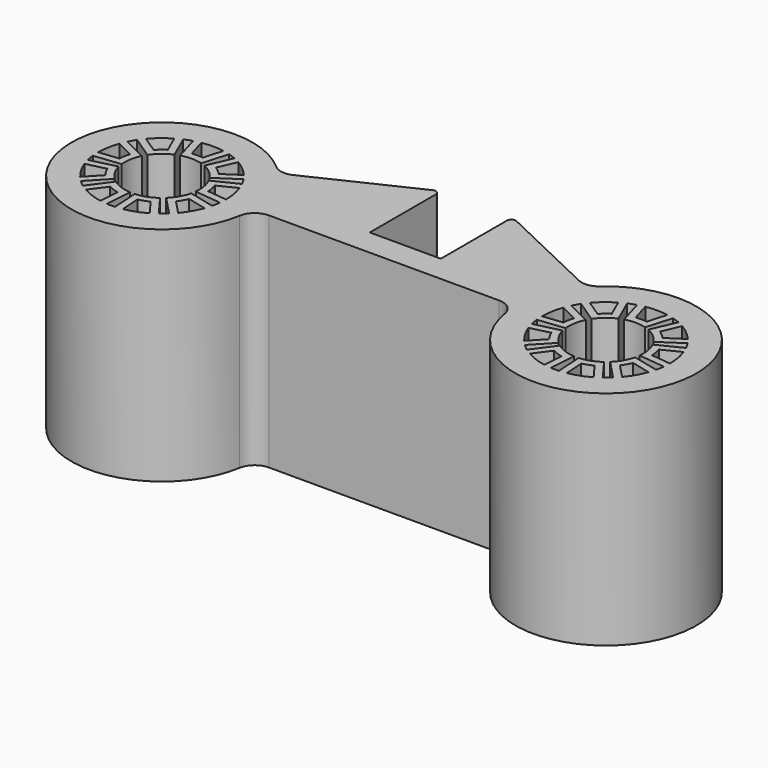
from build123d import *

# Parameters (mm, degrees)
F0_R     = 8
F1_DEPTH = 25
F4_R     = 7.5
F5_DEPTH = 25
F6_R     = 0.5
F7_R     = 2


with BuildPart() as f1:
    # F0 (on Top) → F1 (new body)
    with BuildSketch(Plane.XY):
        Circle(F0_R)
        with BuildLine():
            ThreePointArc((-2.282131, -4.448806), (-1.710101, -4.698463), (-1.111423, -4.874909))
            Line((-1.111423, -4.874909), (-1.252214, -7.090272))
            ThreePointArc((-1.252214, -7.090272), (-2.462545, -6.765787), (-3.598288, -6.236371))
            Line((-3.598288, -6.236371), (-2.282131, -4.448806))
        make_face(mode=Mode.SUBTRACT)
        with BuildLine():
            ThreePointArc((-4.607852, -1.941058), (-4.330127, -2.5), (-3.984931, -3.019988))
            Line((-3.984931, -3.019988), (-5.516791, -4.626556))
            ThreePointArc((-5.516791, -4.626556), (-6.235383, -3.6), (-6.76511, -2.464403))
            Line((-6.76511, -2.464403), (-4.607852, -1.941058))
        make_face(mode=Mode.SUBTRACT)
        with BuildLine():
            ThreePointArc((1.111423, -4.874909), (1.710101, -4.698463), (2.282131, -4.448806))
            Line((2.282131, -4.448806), (3.598288, -6.236371))
            ThreePointArc((3.598288, -6.236371), (2.462545, -6.765787), (1.252214, -7.090272))
            Line((1.252214, -7.090272), (1.111423, -4.874909))
        make_face(mode=Mode.SUBTRACT)
        with BuildLine():
            ThreePointArc((-1.183277, 4.02987), (0, 4.2), (1.183277, 4.02987))
            Line((1.183277, 4.02987), (2.028474, 6.908349))
            ThreePointArc((2.028474, 6.908349), (2.462545, 6.765787), (2.8867, 6.595981))
            Line((2.8867, 6.595981), (1.683908, 3.847656))
            ThreePointArc((1.683908, 3.847656), (2.699708, 3.217387), (3.496793, 2.326464))
            Line((3.496793, 2.326464), (5.994503, 3.988224))
            ThreePointArc((5.994503, 3.988224), (6.235383, 3.6), (6.451155, 3.19728))
            Line((6.451155, 3.19728), (3.763174, 1.86508))
            ThreePointArc((3.763174, 1.86508), (4.136193, 0.729322), (4.174122, -0.46552))
            Line((4.174122, -0.46552), (7.155637, -0.798035))
            ThreePointArc((7.155637, -0.798035), (7.090616, -1.250267), (6.997043, -1.697464))
            Line((6.997043, -1.697464), (4.081609, -0.990188))
            ThreePointArc((4.081609, -0.990188), (3.637307, -2.1), (2.898332, -3.039683))
            Line((2.898332, -3.039683), (4.968569, -5.210885))
            ThreePointArc((4.968569, -5.210885), (4.628071, -5.51552), (4.268937, -5.797946))
            Line((4.268937, -5.797946), (2.490213, -3.382135))
            ThreePointArc((2.490213, -3.382135), (1.436485, -3.946709), (0.26638, -4.191544))
            Line((0.26638, -4.191544), (0.456652, -7.185504))
            ThreePointArc((0.456652, -7.185504), (0, -7.2), (-0.456652, -7.185504))
            Line((-0.456652, -7.185504), (-0.26638, -4.191544))
            ThreePointArc((-0.26638, -4.191544), (-1.436485, -3.946709), (-2.490213, -3.382135))
            Line((-2.490213, -3.382135), (-4.268937, -5.797946))
            ThreePointArc((-4.268937, -5.797946), (-4.628071, -5.51552), (-4.968569, -5.210885))
            Line((-4.968569, -5.210885), (-2.898332, -3.039683))
            ThreePointArc((-2.898332, -3.039683), (-3.637307, -2.1), (-4.081609, -0.990188))
            Line((-4.081609, -0.990188), (-6.997043, -1.697464))
            ThreePointArc((-6.997043, -1.697464), (-7.090616, -1.250267), (-7.155637, -0.798035))
            Line((-7.155637, -0.798035), (-4.174122, -0.46552))
            ThreePointArc((-4.174122, -0.46552), (-4.136193, 0.729322), (-3.763174, 1.86508))
            Line((-3.763174, 1.86508), (-6.451155, 3.19728))
            ThreePointArc((-6.451155, 3.19728), (-6.235383, 3.6), (-5.994503, 3.988224))
            Line((-5.994503, 3.988224), (-3.496793, 2.326464))
            ThreePointArc((-3.496793, 2.326464), (-2.699708, 3.217387), (-1.683908, 3.847656))
            Line((-1.683908, 3.847656), (-2.8867, 6.595981))
            ThreePointArc((-2.8867, 6.595981), (-2.462545, 6.765787), (-2.028474, 6.908349))
            Line((-2.028474, 6.908349), (-1.183277, 4.02987))
        make_face(mode=Mode.SUBTRACT)
        with BuildLine():
            ThreePointArc((3.984931, -3.019988), (4.330127, -2.5), (4.607852, -1.941058))
            Line((4.607852, -1.941058), (6.76511, -2.464403))
            ThreePointArc((6.76511, -2.464403), (6.235383, -3.6), (5.516791, -4.626556))
            Line((5.516791, -4.626556), (3.984931, -3.019988))
        make_face(mode=Mode.SUBTRACT)
        with BuildLine():
            ThreePointArc((-4.777507, 1.474934), (-4.924039, 0.868241), (-4.993845, 0.248019))
            Line((-4.993845, 0.248019), (-7.2, 0.001977))
            ThreePointArc((-7.2, 0.001977), (-7.090616, 1.250267), (-6.766463, 2.460687))
            Line((-6.766463, 2.460687), (-4.777507, 1.474934))
        make_face(mode=Mode.SUBTRACT)
        with BuildLine():
            ThreePointArc((-2.711714, 4.200787), (-3.213938, 3.830222), (-3.666083, 3.399975))
            Line((-3.666083, 3.399975), (-5.514249, 4.629585))
            ThreePointArc((-5.514249, 4.629585), (-4.628071, 5.51552), (-3.601712, 6.234394))
            Line((-3.601712, 6.234394), (-2.711714, 4.200787))
        make_face(mode=Mode.SUBTRACT)
        with BuildLine():
            ThreePointArc((0.622921, 4.961045), (0, 5), (-0.622921, 4.961045))
            Line((-0.622921, 4.961045), (-1.24832, 7.090959))
            ThreePointArc((-1.24832, 7.090959), (0, 7.2), (1.24832, 7.090959))
            Line((1.24832, 7.090959), (0.622921, 4.961045))
        make_face(mode=Mode.SUBTRACT)
        with BuildLine():
            ThreePointArc((4.993845, 0.248019), (4.924039, 0.868241), (4.777507, 1.474934))
            Line((4.777507, 1.474934), (6.766463, 2.460687))
            ThreePointArc((6.766463, 2.460687), (7.090616, 1.250267), (7.2, 0.001977))
            Line((7.2, 0.001977), (4.993845, 0.248019))
        make_face(mode=Mode.SUBTRACT)
        with BuildLine():
            ThreePointArc((3.666083, 3.399975), (3.213938, 3.830222), (2.711714, 4.200787))
            Line((2.711714, 4.200787), (3.601712, 6.234394))
            ThreePointArc((3.601712, 6.234394), (4.628071, 5.51552), (5.514249, 4.629585))
            Line((5.514249, 4.629585), (3.666083, 3.399975))
        make_face(mode=Mode.SUBTRACT)
    extrude(amount=F1_DEPTH)



with BuildPart() as f3_1:
    # F3: instance of F1
    add(f1.part.mirror(Plane.YZ.offset(25)))


with BuildPart() as f1_1:
    add(f1.part)

    add(f3_1.part)  # F5 merges F3_1
    # F4 (on Top) → F5 (join)
    with BuildSketch(Plane.XY):
        with BuildLine():
            ThreePointArc((7.65532, 6.740629), (-9.542648, -3.602481), (10.2, 0))
            Line((10.2, 0), (39.8, 0))
            ThreePointArc((39.8, 0), (59.542648, -3.602481), (42.34468, 6.740629))
            Line((42.34468, 6.740629), (29, 13.095238))
            Line((29, 13.095238), (29, 3))
            Line((29, 3), (21, 3))
            Line((21, 3), (21, 13.095238))
            Line((21, 13.095238), (7.65532, 6.740629))
        make_face()
        Circle(F4_R, mode=Mode.SUBTRACT)
        with Locations((50, 0)):
            Circle(F4_R, mode=Mode.SUBTRACT)
    extrude(amount=F5_DEPTH)

    # F6
    f6_edges = [f1_1.edges().sort_by_distance(p)[0] for p in [
        (21, 13.095238, 12.5),
        (29, 13.095238, 12.5),
    ]]
    fillet(f6_edges, radius=F6_R)

    # F7
    f7_edges = [f1_1.edges().sort_by_distance(p)[0] for p in [
        (10.2, 0, 12.5),
        (39.8, 0, 12.5),
        (7.65532, 6.740629, 12.5),
        (42.34468, 6.740629, 12.5),
    ]]
    fillet(f7_edges, radius=F7_R)


solid = f1_1.part
